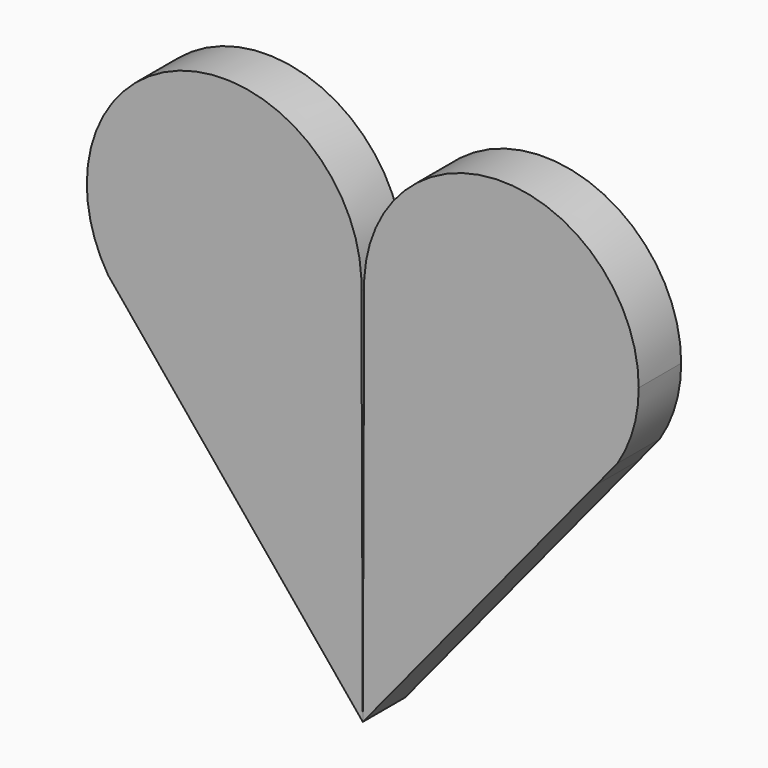
from build123d import *

# Parameters (mm, degrees)
F1_DEPTH = 6.60857


with BuildPart() as f1:
    # F0 (on Front) → F1 (new body)
    with BuildSketch(Plane.XZ):
        with BuildLine():
            ThreePointArc((31.7327203236, 8.0299509299), (33.7079204125, 12.4161974544), (34.3841369227, 17.1788968146))
            ThreePointArc((34.3841369227, 17.1788968146), (17.6454768826, 34.2851886832), (0.1796255922, 17.922059394))
            Line((0.1796255922, 17.922059394), (0.1745971964, 16.5621694001))
            ThreePointArc((0.1745971964, 16.5621694001), (10.8182501633, 1.3331045132), (29.0739707402, 4.7885975353))
            Line((29.0739707402, 4.7885975353), (31.7327203236, 8.0299509299))
        make_face()
        with BuildLine():
            ThreePointArc((29.0739707402, 4.7885975353), (10.8182501633, 1.3331045132), (0.1745971964, 16.5621694001))
            Line((0.1745971964, 16.5621694001), (0, -30.6562650949))
            Line((0, -30.6562650949), (29.0739707402, 4.7885975353))
        make_face()
    extrude(amount=F1_DEPTH)


with BuildPart() as f2_1:
    # F2: instance of F1
    add(f1.part.mirror(Plane.YZ))


solid = Compound([f1.part, f2_1.part])
